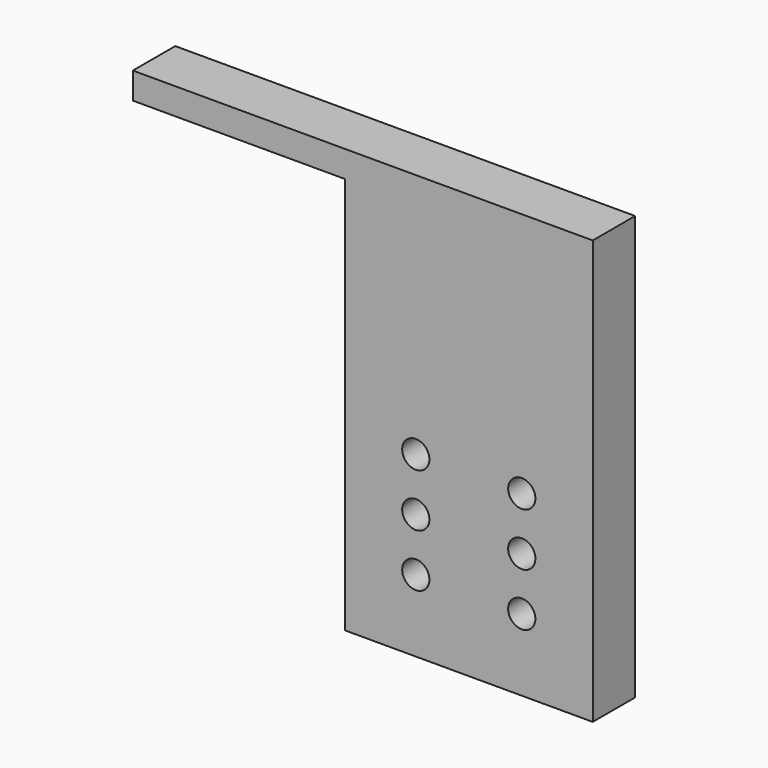
from build123d import *

# Parameters (mm, degrees)
SKETCH024_W        = 59.436
SKETCH024_H        = 12.7
PAD003003_DEPTH    = 101.6
SKETCH026_R        = 3.2639
POCKET001003_DEPTH = 12.701
SKETCH025_W        = 12.7
SKETCH025_H        = 6.35
PAD003004_DEPTH    = 50.8


with BuildPart() as part:
    # Sketch024 → Pad003003 (new body)
    with BuildSketch(Plane.XY.offset(45.212)):
        with Locations((0, -61.468)):
            Rectangle(SKETCH024_W, SKETCH024_H)
    extrude(amount=PAD003003_DEPTH)

    # Sketch026 (on Face1 of Pad003003) → Pocket001003 (cut, through all)
    with BuildSketch(Plane(origin=(0, -67.818, 45.212), x_dir=(1, 0, 0), z_dir=(0, -1, 0))):
        with Locations((-12.7, 17.272)):
            Circle(SKETCH026_R)
        with Locations((-12.7, 29.972)):
            Circle(SKETCH026_R)
        with Locations((-12.7, 42.672)):
            Circle(SKETCH026_R)
        with Locations((12.7, 17.272)):
            Circle(SKETCH026_R)
        with Locations((12.7, 29.972)):
            Circle(SKETCH026_R)
        with Locations((12.7, 42.672)):
            Circle(SKETCH026_R)
    extrude(amount=-POCKET001003_DEPTH, mode=Mode.SUBTRACT)

    # Sketch025 (on Face5 of Pocket001003) → Pad003004 (join)
    with BuildSketch(Plane(origin=(-29.718, 0, 45.212), x_dir=(0, -1, 0), z_dir=(-1, 0, 0))):
        with Locations((61.468, 98.425)):
            Rectangle(SKETCH025_W, SKETCH025_H)
    extrude(amount=PAD003004_DEPTH)


solid = part.part
